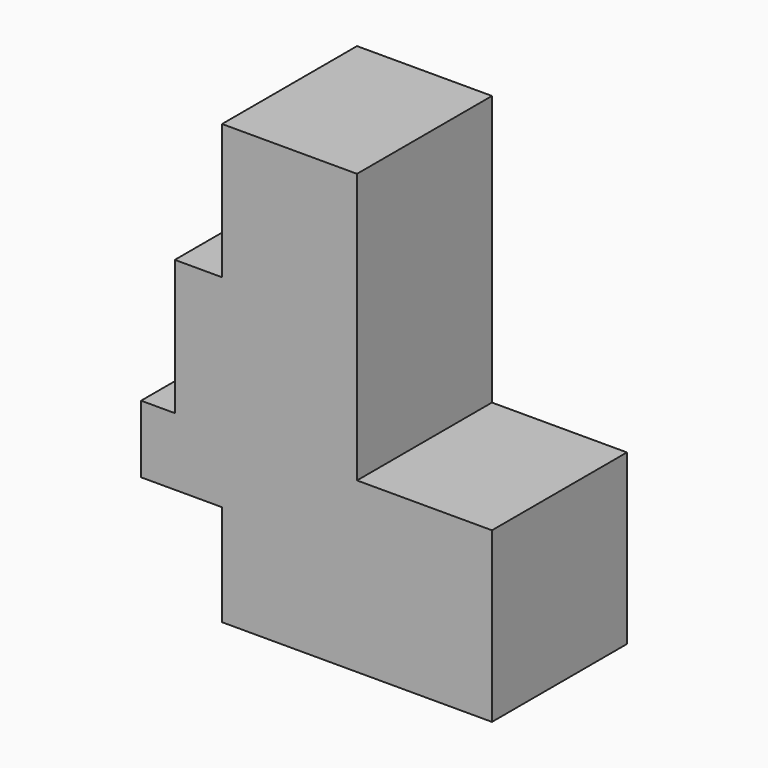
from build123d import *

# Parameters (mm, degrees)
F0_W     = 7
F0_H     = 20
F1_DEPTH = 25


with BuildPart() as f1:
    # F0 (on Front) → F1 (new body)
    with BuildSketch(Plane.XZ):
        Polygon((0, 20), (0, 0), (20, 0), (20, 40), (0, 40), align=None)
        Polygon((20, 0), (0, 0), (0, -10), (0, -25), (40, -25), (40, 0), align=None)
        with Locations((-3.5, 10)):
            Rectangle(F0_W, F0_H)
        Polygon((0, -10), (0, 0), (-7, 0), (-12, 0), (-12, -10), align=None)
    extrude(amount=F1_DEPTH)


solid = f1.part
